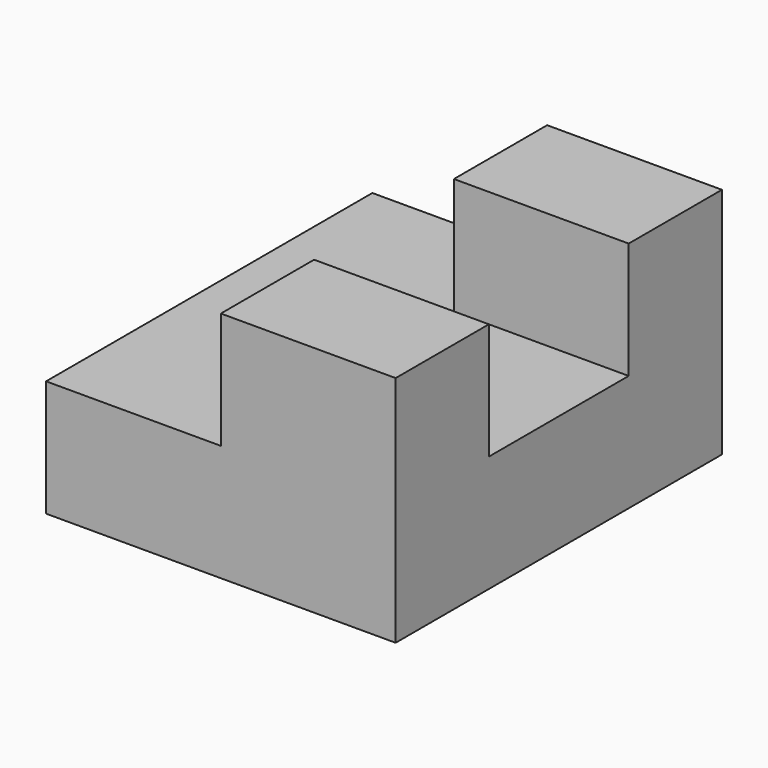
from build123d import *

# Parameters (mm, degrees)
F1_DEPTH = 88.9
F2_W     = 38.1
F2_H     = 25.4
F3_DEPTH = 12.7
F4_DEPTH = 12.7
F5_DEPTH = 12.7
F6_W     = 38.1
F6_H     = 38.1
F7_DEPTH = 25.4


with BuildPart() as f1:
    # F0 (on Front) → F1 (new body)
    with BuildSketch(Plane.XZ):
        Polygon((-46.1300164461, -10.5774940407), (-46.1300164461, -48.6774940407), (30.0699835539, -48.6774940407), (30.0699835539, 14.8225059593), (-8.0300164461, 14.8225059593), (-8.0300164461, -10.5774940407), align=None)
    extrude(amount=F1_DEPTH)

    # F2 (on face) → F3 (cut)
    with BuildSketch(Plane.XY.offset(14.8225059593)):
        with Locations((11.0199835539, -76.2)):
            Rectangle(F2_W, F2_H)
    extrude(amount=-F3_DEPTH, mode=Mode.SUBTRACT)

    # F4 (cut): a face of the model
    f4_faces = [f1.faces().sort_by_distance(p)[0] for p in [
        (11.0199835539, -31.75, 14.8225059593),
    ]]
    extrude(f4_faces, amount=-F4_DEPTH, mode=Mode.SUBTRACT)

    # F5 (cut): a face of the model
    f5_faces = [f1.faces().sort_by_distance(p)[0] for p in [
        (-27.0800164461, -44.45, -10.5774940407),
    ]]
    extrude(f5_faces, amount=-F5_DEPTH, mode=Mode.SUBTRACT)

    # F6 (on face) → F7 (cut)
    with BuildSketch(Plane.XY.offset(2.1225059593)):
        with Locations((11.0199835539, -44.45)):
            Rectangle(F6_W, F6_H)
    extrude(amount=-F7_DEPTH, mode=Mode.SUBTRACT)


solid = f1.part
